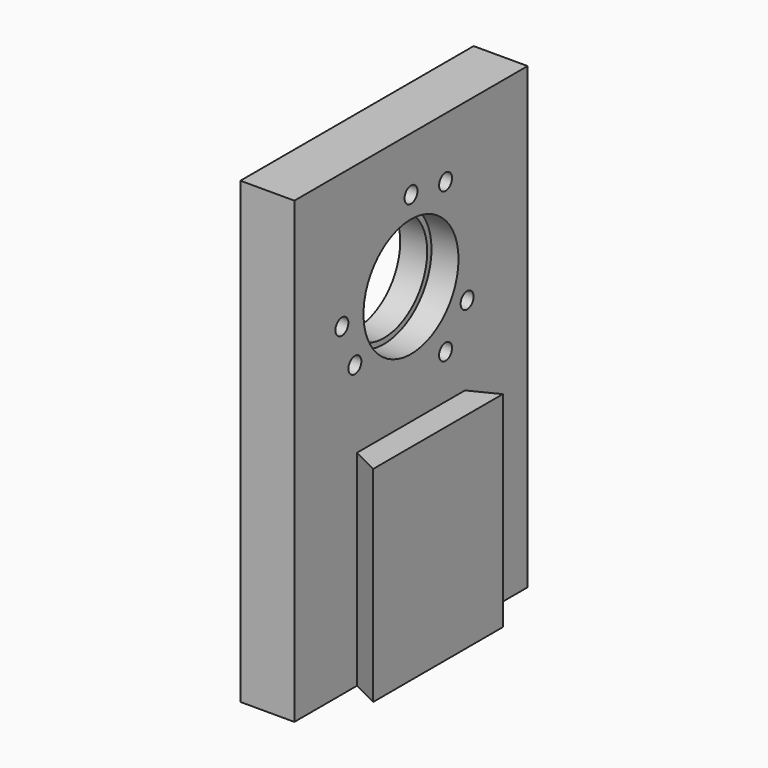
from build123d import *

# Parameters (mm, degrees)
PAD_DEPTH             = 38
SKETCH_W              = 10
SKETCH_H              = 54
PAD001_DEPTH          = 85
SKETCH002_R           = 10
POCKET_DEPTH          = 25.001
SKETCH003_R           = 1.5
POCKET001_DEPTH       = 218.62811
POLARPATTERN_COUNT    = 3
SKETCH004_R           = 3
POCKET002_DEPTH       = 5
POLARPATTERN001_COUNT = 3
SKETCH005_R           = 11
POCKET003_DEPTH       = 20


with BuildPart() as part:
    # Sketch001 → Pad (new body)
    with BuildSketch(Plane.XY):
        Polygon((-15, 0), (-15, 14.5), (-10, 12), (-10, 42), (-15, 39.5), (-15, 54), (-25, 54), (-25, 0), align=None)
    extrude(amount=PAD_DEPTH)

    # Sketch → Pad001 (join)
    with BuildSketch(Plane.XY):
        with Locations((-20, 27)):
            Rectangle(SKETCH_W, SKETCH_H)
    extrude(amount=PAD001_DEPTH)

    # Sketch002 → Pocket (cut, through all)
    with BuildSketch(Plane.YZ):
        with Locations((27, 60)):
            Circle(SKETCH002_R)
    extrude(amount=-POCKET_DEPTH, mode=Mode.SUBTRACT)

    # Sketch003 → Pocket001 (cut, through all)
    with BuildSketch(Plane(origin=(-25, 27, 60), x_dir=(0, 1, 0), z_dir=(1, 0, 0))):
        with Locations((0, 15)):
            Circle(SKETCH003_R)
        with Locations((-16, 0)):
            Circle(SKETCH003_R)
    pocket001 = extrude(amount=POCKET001_DEPTH, mode=Mode.SUBTRACT)

    # PolarPattern: Pocket001 ×3 about axis
    polarpattern_axis = Axis((-25, 27, 60), (1, 0, 0))
    for i in range(1, POLARPATTERN_COUNT):
        add(pocket001.rotate(polarpattern_axis, i * 360 / POLARPATTERN_COUNT), mode=Mode.SUBTRACT)

    # Sketch004 → Pocket002 (cut)
    with BuildSketch(Plane(origin=(-25, 27, 60), x_dir=(0, 1, 0), z_dir=(1, 0, 0))):
        with Locations((0, 15)):
            Circle(SKETCH004_R)
        with Locations((-16, 0)):
            Circle(SKETCH004_R)
    pocket002 = extrude(amount=POCKET002_DEPTH, mode=Mode.SUBTRACT)

    # PolarPattern001: Pocket002 ×3 about axis
    polarpattern001_axis = Axis((-25, 27, 60), (1, 0, 0))
    for i in range(1, POLARPATTERN001_COUNT):
        add(pocket002.rotate(polarpattern001_axis, i * 360 / POLARPATTERN001_COUNT), mode=Mode.SUBTRACT)

    # Sketch005 → Pocket003 (cut)
    with BuildSketch(Plane.YZ):
        with Locations((27, 60)):
            Circle(SKETCH005_R)
    extrude(amount=-POCKET003_DEPTH, mode=Mode.SUBTRACT)


solid = part.part
